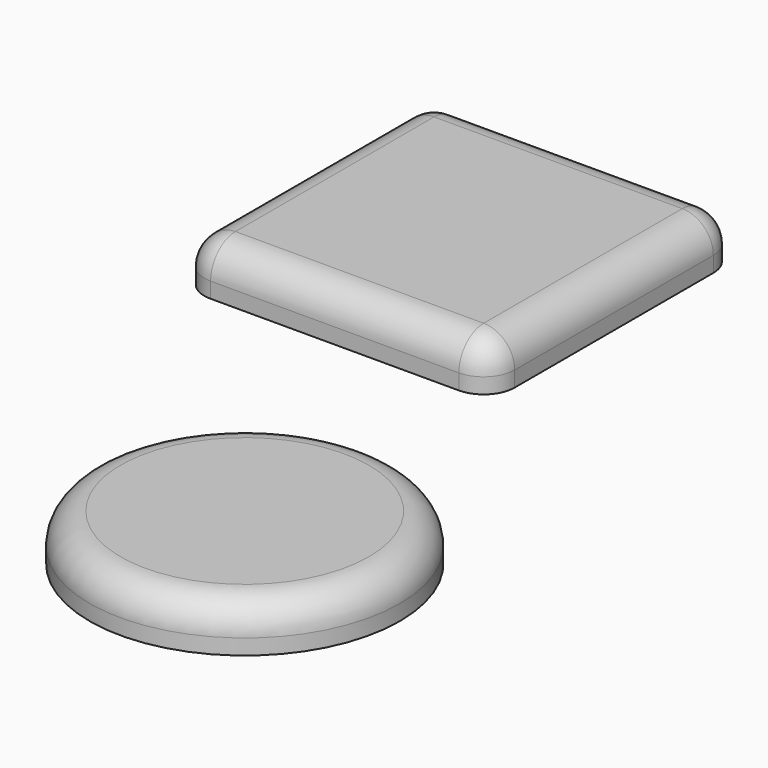
from build123d import *

# Parameters (mm, degrees)
F1_R     = 25.4
F2_DEPTH = 7.62
F3_R     = 5.08
F4_W     = 50.8
F4_H     = 50.8
F5_DEPTH = 7.62
F6_R     = 5.08
F7_R     = 5.08


with BuildPart() as f2:
    # F1 (on Top) → F2 (new body)
    with BuildSketch(Plane.XY):
        with Locations((-105.311699, -26.255054)):
            Circle(F1_R)
    extrude(amount=F2_DEPTH)

    # F3
    f3_edges = [f2.edges().sort_by_distance(p)[0] for p in [
        (-130.711699, -26.255054, 7.62),
    ]]
    fillet(f3_edges, radius=F3_R)


with BuildPart() as f5:
    # F4 (on offset) → F5 (new body)
    with BuildSketch(Plane.XY.offset(12.7)):
        with Locations((-119.007931, 34.68895)):
            Rectangle(F4_W, F4_H)
    extrude(amount=F5_DEPTH)

    # F6
    f6_edges = [f5.edges().sort_by_distance(p)[0] for p in [
        (-93.607931, 60.08895, 16.51),
        (-93.607931, 9.28895, 16.51),
        (-144.407931, 60.08895, 16.51),
        (-144.407931, 9.28895, 16.51),
    ]]
    fillet(f6_edges, radius=F6_R)

    # F7
    f7_edges = [f5.edges().sort_by_distance(p)[0] for p in [
        (-119.007931, 9.28895, 20.32),
        (-142.920034, 10.776847, 20.32),
        (-95.095829, 10.776847, 20.32),
        (-144.407931, 34.68895, 20.32),
        (-93.607931, 34.68895, 20.32),
        (-142.920034, 58.601052, 20.32),
        (-95.095829, 58.601052, 20.32),
        (-119.007931, 60.08895, 20.32),
    ]]
    fillet(f7_edges, radius=F7_R)


solid = Compound([f2.part, f5.part])
